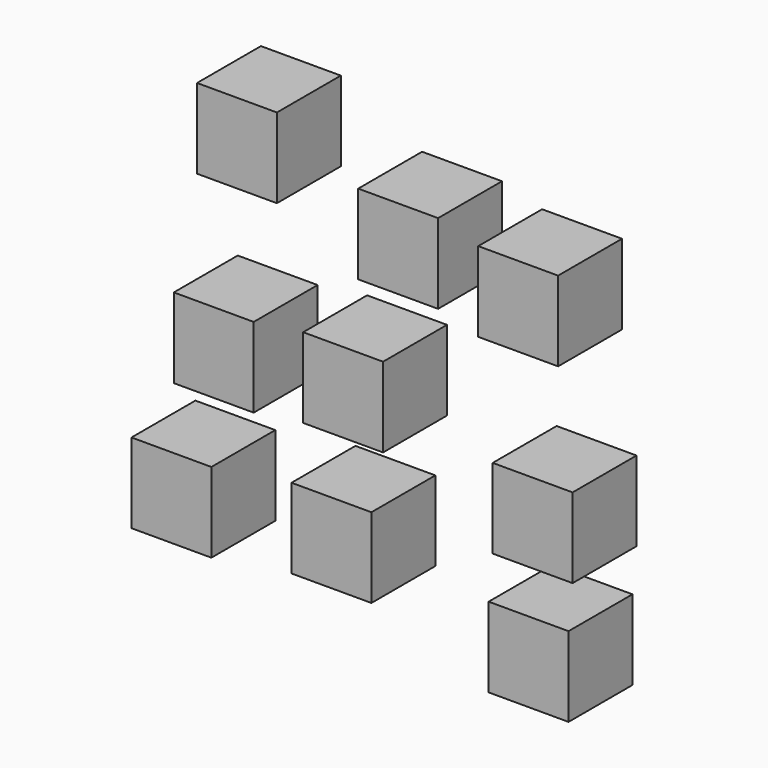
from build123d import *

# Parameters (mm, degrees)
F0_W     = 25.4
F0_H     = 25.4
F1_DEPTH = 25.4


with BuildPart() as f1:
    # F0 (on Front) → F1 (new body)
    with BuildSketch(Plane.XZ):
        with Locations((-33.757421, 58.78871)):
            Rectangle(F0_W, F0_H)
        with Locations((17.493225, 45.883873)):
            Rectangle(F0_W, F0_H)
        with Locations((55.65468, 42.196776)):
            Rectangle(F0_W, F0_H)
        with Locations((60.263549, -16.981129)):
            Rectangle(F0_W, F0_H)
        with Locations((58.973064, -56.248708)):
            Rectangle(F0_W, F0_H)
        with Locations((-3.707581, -43.343874)):
            Rectangle(F0_W, F0_H)
        Rectangle(F0_W, F0_H)
        with Locations((-41.131615, -2.232741)):
            Rectangle(F0_W, F0_H)
        with Locations((-54.589516, -47.215323)):
            Rectangle(F0_W, F0_H)
    extrude(amount=F1_DEPTH)


solid = f1.part
